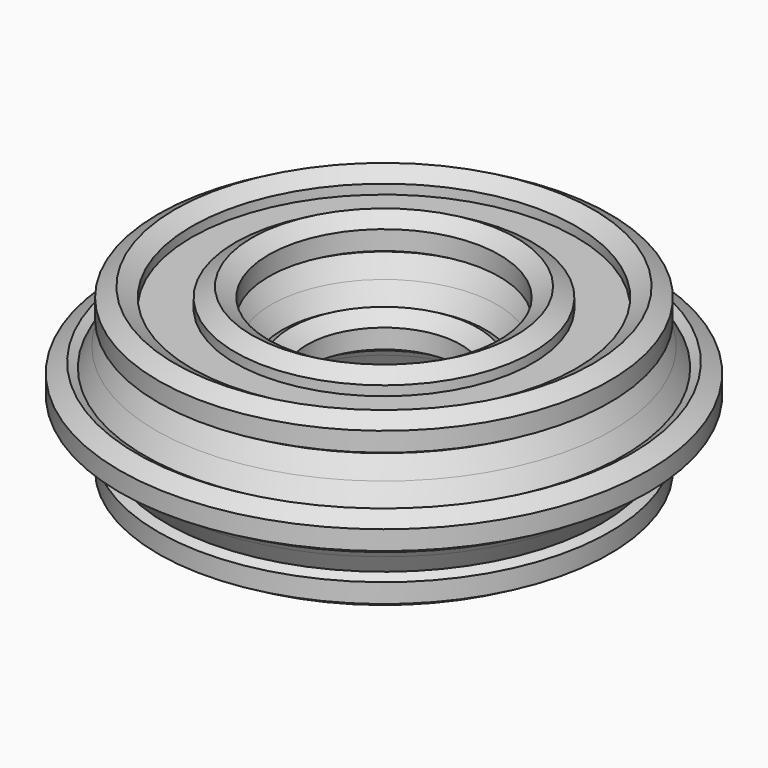
from build123d import *


with BuildPart() as f1:
    # F0 (on Front) → F1 (revolve)
    with BuildSketch(Plane.XZ):
        with BuildLine():
            ThreePointArc((-9.1840260647, 20.0261379157), (-8.8870457607, 17.9573039236), (-8.7877535299, 15.8696228078))
            ThreePointArc((-8.7877535299, 15.8696228078), (-8.8870457607, 13.7819416921), (-9.1840260647, 11.7131076999))
            Line((-9.1840260647, 11.7131076999), (-8.1344294431, 11.1071228078))
            Line((-8.1344294431, 11.1071228078), (-5.384798786, 15.8696228078))
            Line((-5.384798786, 15.8696228078), (-8.1344294431, 20.6321228078))
            Line((-8.1344294431, 20.6321228078), (-9.1840260647, 20.0261379157))
        make_face()
        with BuildLine():
            Line((-10.8840601001, 19.0446228078), (-9.1840260647, 20.0261379157))
            ThreePointArc((-9.1840260647, 20.0261379157), (-10.1735252451, 23.5537234722), (-11.7347988177, 26.8681454908))
            ThreePointArc((-11.7347988177, 26.8681454908), (-13.8245356754, 29.8774590153), (-16.3847647507, 32.4981831719))
            Line((-16.3847647507, 32.4981831719), (-18.084798786, 31.5166680639))
            Line((-18.084798786, 31.5166680639), (-23.5840601001, 34.6916680639))
            Line((-23.5840601001, 34.6916680639), (-23.5840601001, 36.6546982798))
            ThreePointArc((-23.5840601001, 36.6546982798), (-27.1337883649, 37.5615596255), (-30.784798786, 37.8666680639))
            ThreePointArc((-30.784798786, 37.8666680639), (-34.4358092072, 37.5615596255), (-37.985537472, 36.6546982798))
            Line((-37.985537472, 36.6546982798), (-37.985537472, 34.6916680639))
            Line((-37.985537472, 34.6916680639), (-43.484798786, 31.5166680639))
            Line((-43.484798786, 31.5166680639), (-45.1848328214, 32.4981831719))
            ThreePointArc((-45.1848328214, 32.4981831719), (-47.7450618967, 29.8774590153), (-49.8347987544, 26.8681454908))
            ThreePointArc((-49.8347987544, 26.8681454908), (-51.396072327, 23.5537234722), (-52.3855715074, 20.0261379157))
            Line((-52.3855715074, 20.0261379157), (-50.685537472, 19.0446228078))
            Line((-50.685537472, 19.0446228078), (-50.685537472, 12.6946228078))
            Line((-50.685537472, 12.6946228078), (-52.3855715074, 11.7131076999))
            ThreePointArc((-52.3855715074, 11.7131076999), (-51.3960723856, 8.1855223005), (-49.834798922, 4.8711004152))
            ThreePointArc((-49.834798922, 4.8711004152), (-47.7450620035, 1.8617867296), (-45.1848328214, -0.7589375563))
            Line((-45.1848328214, -0.7589375563), (-43.484798786, 0.2225775517))
            Line((-43.484798786, 0.2225775517), (-37.985537472, -2.9524224483))
            Line((-37.985537472, -2.9524224483), (-37.985537472, -4.9154526642))
            ThreePointArc((-37.985537472, -4.9154526642), (-34.4358092072, -5.8223140099), (-30.784798786, -6.1274224483))
            ThreePointArc((-30.784798786, -6.1274224483), (-27.1337883649, -5.8223140099), (-23.5840601001, -4.9154526642))
            Line((-23.5840601001, -4.9154526642), (-23.5840601001, -2.9524224483))
            Line((-23.5840601001, -2.9524224483), (-18.084798786, 0.2225775517))
            Line((-18.084798786, 0.2225775517), (-16.3847647507, -0.7589375563))
            ThreePointArc((-16.3847647507, -0.7589375563), (-13.8245356346, 1.8617866497), (-11.7347987537, 4.8711002358))
            ThreePointArc((-11.7347987537, 4.8711002358), (-10.1735252227, 8.1855222034), (-9.1840260647, 11.7131076999))
            Line((-9.1840260647, 11.7131076999), (-10.8840601001, 12.6946228078))
            Line((-10.8840601001, 12.6946228078), (-10.8840601001, 19.0446228078))
        make_face()
        with BuildLine():
            ThreePointArc((-11.7347988177, 26.8681454908), (-10.1735252451, 23.5537234722), (-9.1840260647, 20.0261379157))
            Line((-9.1840260647, 20.0261379157), (-8.1344294431, 20.6321228078))
            Line((-8.1344294431, 20.6321228078), (-11.7347988177, 26.8681454908))
        make_face()
        with BuildLine():
            Line((-8.1344294431, 11.1071228078), (-9.1840260647, 11.7131076999))
            ThreePointArc((-9.1840260647, 11.7131076999), (-10.1735252227, 8.1855222034), (-11.7347987537, 4.8711002358))
            Line((-11.7347987537, 4.8711002358), (-8.1344294431, 11.1071228078))
        make_face()
        with BuildLine():
            ThreePointArc((-16.3847647507, 32.4981831719), (-13.8245356754, 29.8774590153), (-11.7347988177, 26.8681454908))
            Line((-11.7347988177, 26.8681454908), (-15.335168129, 33.1041680639))
            Line((-15.335168129, 33.1041680639), (-16.3847647507, 32.4981831719))
        make_face()
        Polygon((-5.384798786, 22.2196228078), (-8.1344294431, 20.6321228078), (-5.384798786, 15.8696228078), (-8.1344294431, 11.1071228078), (-5.384798786, 9.5196228078), (0.114462528, 12.6946228078), (0.114462528, 19.0446228078), align=None)
        with BuildLine():
            Line((-15.335168129, -1.3649224483), (-11.7347987537, 4.8711002358))
            ThreePointArc((-11.7347987537, 4.8711002358), (-13.8245356346, 1.8617866497), (-16.3847647507, -0.7589375563))
            Line((-16.3847647507, -0.7589375563), (-15.335168129, -1.3649224483))
        make_face()
        with BuildLine():
            ThreePointArc((-23.5840601001, 36.6546982798), (-19.786276158, 34.9196228078), (-16.3847647507, 32.4981831719))
            Line((-16.3847647507, 32.4981831719), (-15.335168129, 33.1041680639))
            Line((-15.335168129, 33.1041680639), (-18.084798786, 37.8666680639))
            Line((-18.084798786, 37.8666680639), (-23.5840601001, 37.8666680639))
            Line((-23.5840601001, 37.8666680639), (-23.5840601001, 36.6546982798))
        make_face()
        Polygon((-18.084798786, 37.8666680639), (-15.335168129, 33.1041680639), (-12.585537472, 34.6916680639), (-12.585537472, 41.0416680639), (-18.084798786, 44.2166680639), (-23.5840601001, 41.0416680639), (-23.5840601001, 37.8666680639), align=None)
        with BuildLine():
            Line((-15.335168129, -1.3649224483), (-16.3847647507, -0.7589375563))
            ThreePointArc((-16.3847647507, -0.7589375563), (-19.786276158, -3.1803771922), (-23.5840601001, -4.9154526642))
            Line((-23.5840601001, -4.9154526642), (-23.5840601001, -6.1274224483))
            Line((-23.5840601001, -6.1274224483), (-18.084798786, -6.1274224483))
            Line((-18.084798786, -6.1274224483), (-15.335168129, -1.3649224483))
        make_face()
        Polygon((-12.585537472, -2.9524224483), (-15.335168129, -1.3649224483), (-18.084798786, -6.1274224483), (-23.5840601001, -6.1274224483), (-23.5840601001, -9.3024224483), (-18.084798786, -12.4774224483), (-12.585537472, -9.3024224483), align=None)
        with BuildLine():
            ThreePointArc((-30.784798786, 37.8666680639), (-27.1337883649, 37.5615596255), (-23.5840601001, 36.6546982798))
            Line((-23.5840601001, 36.6546982798), (-23.5840601001, 37.8666680639))
            Line((-23.5840601001, 37.8666680639), (-30.784798786, 37.8666680639))
        make_face()
        with BuildLine():
            Line((-23.5840601001, -6.1274224483), (-23.5840601001, -4.9154526642))
            ThreePointArc((-23.5840601001, -4.9154526642), (-27.1337883649, -5.8223140099), (-30.784798786, -6.1274224483))
            Line((-30.784798786, -6.1274224483), (-23.5840601001, -6.1274224483))
        make_face()
        with BuildLine():
            ThreePointArc((-37.985537472, 36.6546982798), (-34.4358092072, 37.5615596255), (-30.784798786, 37.8666680639))
            Line((-30.784798786, 37.8666680639), (-37.985537472, 37.8666680639))
            Line((-37.985537472, 37.8666680639), (-37.985537472, 36.6546982798))
        make_face()
        with BuildLine():
            Line((-37.985537472, -6.1274224483), (-30.784798786, -6.1274224483))
            ThreePointArc((-30.784798786, -6.1274224483), (-34.4358092072, -5.8223140099), (-37.985537472, -4.9154526642))
            Line((-37.985537472, -4.9154526642), (-37.985537472, -6.1274224483))
        make_face()
        with BuildLine():
            ThreePointArc((-45.1848328214, 32.4981831719), (-41.7833214141, 34.9196228078), (-37.985537472, 36.6546982798))
            Line((-37.985537472, 36.6546982798), (-37.985537472, 37.8666680639))
            Line((-37.985537472, 37.8666680639), (-43.484798786, 37.8666680639))
            Line((-43.484798786, 37.8666680639), (-46.2344294431, 33.1041680639))
            Line((-46.2344294431, 33.1041680639), (-45.1848328214, 32.4981831719))
        make_face()
        Polygon((-43.484798786, 37.8666680639), (-37.985537472, 37.8666680639), (-37.985537472, 41.0416680639), (-43.484798786, 44.2166680639), (-48.9840601001, 41.0416680639), (-48.9840601001, 34.6916680639), (-46.2344294431, 33.1041680639), align=None)
        with BuildLine():
            Line((-37.985537472, -6.1274224483), (-37.985537472, -4.9154526642))
            ThreePointArc((-37.985537472, -4.9154526642), (-41.7833214141, -3.1803771922), (-45.1848328214, -0.7589375563))
            Line((-45.1848328214, -0.7589375563), (-46.2344294431, -1.3649224483))
            Line((-46.2344294431, -1.3649224483), (-43.484798786, -6.1274224483))
            Line((-43.484798786, -6.1274224483), (-37.985537472, -6.1274224483))
        make_face()
        Polygon((-37.985537472, -9.3024224483), (-37.985537472, -6.1274224483), (-43.484798786, -6.1274224483), (-46.2344294431, -1.3649224483), (-48.9840601001, -2.9524224483), (-48.9840601001, -9.3024224483), (-43.484798786, -12.4774224483), align=None)
        with BuildLine():
            ThreePointArc((-49.8347987544, 26.8681454908), (-47.7450618967, 29.8774590153), (-45.1848328214, 32.4981831719))
            Line((-45.1848328214, 32.4981831719), (-46.2344294431, 33.1041680639))
            Line((-46.2344294431, 33.1041680639), (-49.8347987544, 26.8681454908))
        make_face()
        with BuildLine():
            Line((-46.2344294431, -1.3649224483), (-45.1848328214, -0.7589375563))
            ThreePointArc((-45.1848328214, -0.7589375563), (-47.7450620035, 1.8617867296), (-49.834798922, 4.8711004152))
            Line((-49.834798922, 4.8711004152), (-46.2344294431, -1.3649224483))
        make_face()
        with BuildLine():
            ThreePointArc((-52.3855715074, 20.0261379157), (-51.396072327, 23.5537234722), (-49.8347987544, 26.8681454908))
            Line((-49.8347987544, 26.8681454908), (-53.435168129, 20.6321228078))
            Line((-53.435168129, 20.6321228078), (-52.3855715074, 20.0261379157))
        make_face()
        with BuildLine():
            Line((-53.435168129, 11.1071228078), (-49.834798922, 4.8711004152))
            ThreePointArc((-49.834798922, 4.8711004152), (-51.3960723856, 8.1855223005), (-52.3855715074, 11.7131076999))
            Line((-52.3855715074, 11.7131076999), (-53.435168129, 11.1071228078))
        make_face()
        with BuildLine():
            ThreePointArc((-52.3855715074, 11.7131076999), (-52.7818440422, 15.8696228078), (-52.3855715074, 20.0261379157))
            Line((-52.3855715074, 20.0261379157), (-53.435168129, 20.6321228078))
            Line((-53.435168129, 20.6321228078), (-56.184798786, 15.8696228078))
            Line((-56.184798786, 15.8696228078), (-53.435168129, 11.1071228078))
            Line((-53.435168129, 11.1071228078), (-52.3855715074, 11.7131076999))
        make_face()
        Polygon((-56.184798786, 15.8696228078), (-53.435168129, 20.6321228078), (-56.184798786, 22.2196228078), (-61.6840601001, 19.0446228078), (-61.6840601001, 12.6946228078), (-56.184798786, 9.5196228078), (-53.435168129, 11.1071228078), align=None)
    revolve(axis=Axis((25.514462528, 0, 17.1541441232), (0, 0, -1)))


solid = f1.part
